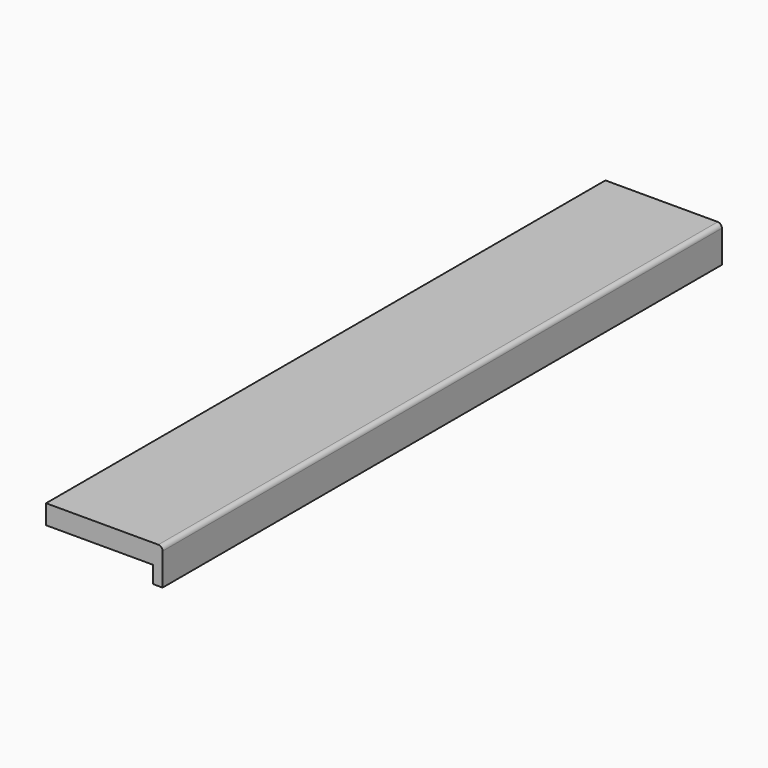
from build123d import *

# Parameters (mm, degrees)
F1_DEPTH = 1828.8


with BuildPart() as f1:
    # F0 (on Front) → F1 (new body)
    with BuildSketch(Plane.XZ):
        with BuildLine():
            Line((196.990829, 95.25), (-96.696671, 95.25))
            Line((-96.696671, 95.25), (-96.696671, 44.45))
            Line((-96.696671, 44.45), (182.703329, 44.45))
            Line((182.703329, 44.45), (182.703329, 0))
            Line((182.703329, 0), (208.103329, 0))
            Line((208.103329, 0), (208.103329, 84.1375))
            ThreePointArc((208.103329, 84.1375), (204.848553, 91.995224), (196.990829, 95.25))
        make_face()
    extrude(amount=F1_DEPTH)


solid = f1.part
